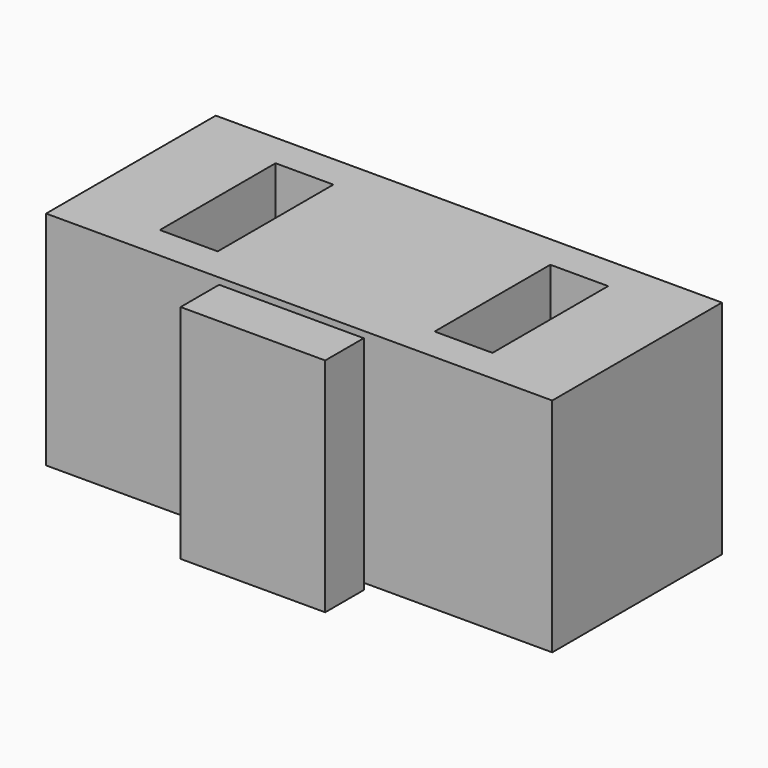
from build123d import *

# Parameters (mm, degrees)
BOX006_W     = 1.2
BOX006_H     = 3
BOX006_DEPTH = 3.4
BOX007_W     = 1.2
BOX007_H     = 3
BOX007_DEPTH = 3.4
BOX004_W     = 10.5
BOX004_H     = 4.4
BOX004_DEPTH = 4.6
BOX005_W     = 3
BOX005_H     = 1
BOX005_DEPTH = 4.6


with BuildPart() as obj1:
    # Box006 → Box006 (new body)
    with BuildSketch(Plane(origin=(-3.45, -1.5, 4.6), x_dir=(1, 0, 0), z_dir=(0, 0, 1))):
        with Locations((0.6, 1.5)):
            Rectangle(BOX006_W, BOX006_H)
    extrude(amount=BOX006_DEPTH)


with BuildPart() as obj2:
    # Box007 → Box007 (new body)
    with BuildSketch(Plane(origin=(2.25, -1.5, 4.6), x_dir=(1, 0, 0), z_dir=(0, 0, 1))):
        with Locations((0.6, 1.5)):
            Rectangle(BOX007_W, BOX007_H)
    extrude(amount=BOX007_DEPTH)

    # Fusion001: union obj1
    add(obj1.part)


with BuildPart() as obj3:
    # Box004 → Box004 (new body)
    with BuildSketch(Plane(origin=(-5.25, -2.2, 3.4), x_dir=(1, 0, 0), z_dir=(0, 0, 1))):
        with Locations((5.25, 2.2)):
            Rectangle(BOX004_W, BOX004_H)
    extrude(amount=BOX004_DEPTH)


with BuildPart() as obj4:
    # Box005 → Box005 (new body)
    with BuildSketch(Plane(origin=(-1.5, -3.4, 3.4), x_dir=(1, 0, 0), z_dir=(0, 0, 1))):
        with Locations((1.5, 0.5)):
            Rectangle(BOX005_W, BOX005_H)
    extrude(amount=BOX005_DEPTH)

    # Fusion: union obj3
    add(obj3.part)

    # Cut001: cut obj2
    add(obj2.part, mode=Mode.SUBTRACT)


solid = obj4.part
